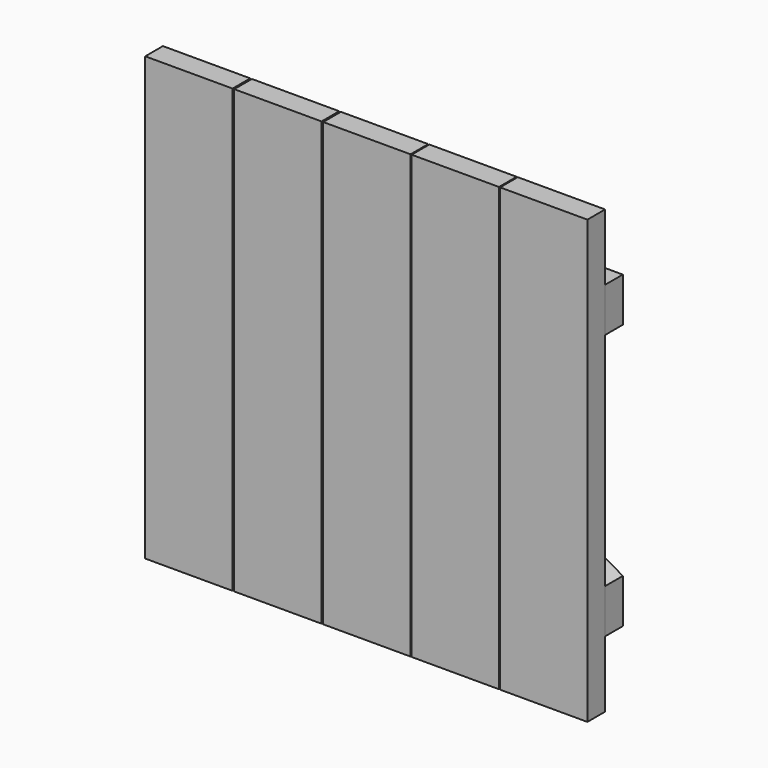
from build123d import *

# Parameters (mm, degrees)
F0_W     = 10.033
F0_H     = 50.8
F1_DEPTH = 2.54
F3_DEPTH = 2.54


with BuildPart() as f1:
    # F0 (on Front) → F1 (new body)
    with BuildSketch(Plane.XZ):
        with Locations((5.0165, 25.4)):
            Rectangle(F0_W, F0_H)
        with Locations((25.4635, 25.4)):
            Rectangle(F0_W, F0_H)
        with Locations((15.24, 25.4)):
            Rectangle(F0_W, F0_H)
        with Locations((35.6235, 25.4)):
            Rectangle(F0_W, F0_H)
        with Locations((45.7835, 25.4)):
            Rectangle(F0_W, F0_H)
    extrude(amount=F1_DEPTH)


with BuildPart() as f3:
    # F2 (on Front) → F3 (new body)
    with BuildSketch(Plane.XZ):
        Polygon((0, 38.1), (7.526577, 38.1), (50.8, 38.1), (50.8, 43.18), (0, 43.18), align=None)
        Polygon((0, 12.7), (0, 7.62), (50.8, 7.62), (50.8, 12.7), (43.273423, 12.7), align=None)
        Polygon((43.273423, 12.7), (50.8, 12.7), (7.526577, 38.1), (0, 38.1), align=None)
    extrude(amount=-F3_DEPTH)


solid = Compound([f1.part, f3.part])
